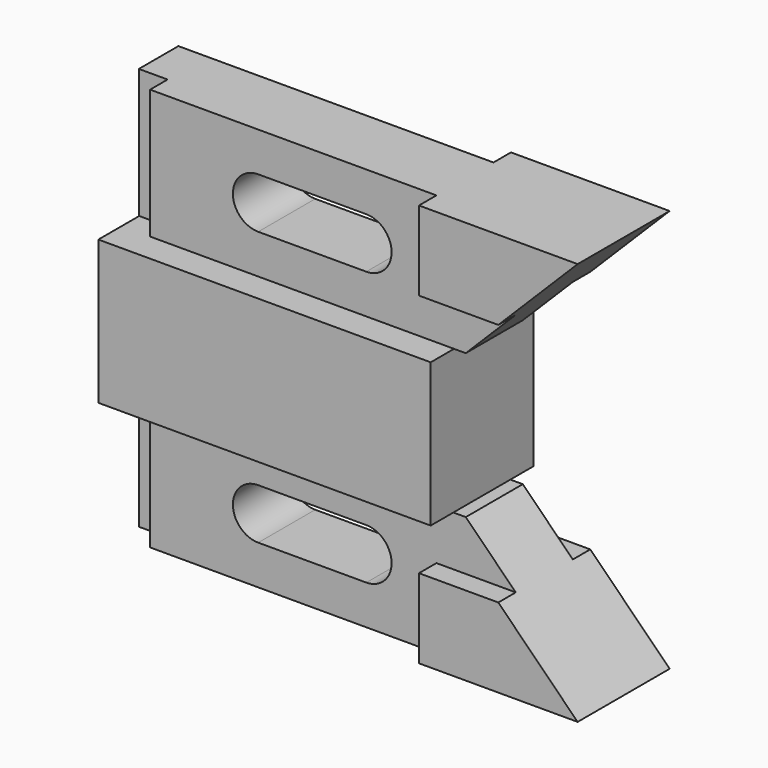
from build123d import *

# Parameters (mm, degrees)
F0_W      = 104.648
F0_H      = 28.575
F1_DEPTH  = 12.7
F2_W      = 6.35
F2_H      = 9.652
F3_DEPTH  = 28.576
F5_DEPTH  = 4.826
F7_DEPTH  = 4.826
F9_DEPTH  = 25.401
F10_W     = 73.406
F10_H     = 31.75
F11_DEPTH = 14.224


with BuildPart() as f1:
    # F0 (on Front) → F1 (new body, symmetric)
    with BuildSketch(Plane.XZ):
        with Locations((-7.366, 30.226)):
            Rectangle(F0_W, F0_H)
        with BuildLine():
            ThreePointArc((-29.464, 24.638), (-35.052, 30.226), (-29.464, 35.814))
            Line((-29.464, 35.814), (-5.588, 35.814))
            ThreePointArc((-5.588, 35.814), (0, 30.226), (-5.588, 24.638))
            Line((-5.588, 24.638), (-29.464, 24.638))
        make_face(mode=Mode.SUBTRACT)
    extrude(amount=F1_DEPTH, both=True)

    # F2 (on face) → F3 (cut, through all)
    with BuildSketch(Plane.XY.offset(44.5135)):
        with Locations((-56.515, -7.874)):
            Rectangle(F2_W, F2_H)
    extrude(amount=-F3_DEPTH, mode=Mode.SUBTRACT)

    # F4 (on face) → F5 (cut)
    with BuildSketch(Plane.XZ.offset(12.7)):
        Polygon((9.906, 44.5135), (-53.34, 44.5135), (-53.34, 15.9385), (44.958, 15.9385), (44.958, 26.9875), (9.906, 26.9875), align=None)
        with BuildLine():
            Line((-5.588, 24.638), (-29.464, 24.638))
            ThreePointArc((-29.464, 24.638), (-35.052, 30.226), (-29.464, 35.814))
            Line((-29.464, 35.814), (-5.588, 35.814))
            ThreePointArc((-5.588, 35.814), (0, 30.226), (-5.588, 24.638))
        make_face(mode=Mode.SUBTRACT)
    extrude(amount=-F5_DEPTH, mode=Mode.SUBTRACT)

    # F6 (on face) → F7 (cut)
    with BuildSketch(Plane(origin=(0, 12.7, 0), x_dir=(-1, 0, 0), z_dir=(0, 1, 0))):
        Polygon((59.69, 15.9385), (59.69, 44.5135), (-9.906, 44.5135), (-9.906, 26.9875), (-44.958, 26.9875), (-44.958, 15.9385), align=None)
        with BuildLine():
            Line((5.588, 35.814), (29.464, 35.814))
            ThreePointArc((29.464, 35.814), (35.052, 30.226), (29.464, 24.638))
            Line((29.464, 24.638), (5.588, 24.638))
            ThreePointArc((5.588, 24.638), (0, 30.226), (5.588, 35.814))
        make_face(mode=Mode.SUBTRACT)
    extrude(amount=-F7_DEPTH, mode=Mode.SUBTRACT)

    # F8 (on face) → F9 (cut, through all)
    with BuildSketch(Plane.XZ.offset(12.7)):
        Polygon((44.958, 26.9875), (44.958, 44.5135), (27.432, 26.9875), align=None)
        Polygon((44.958, 26.9875), (27.432, 26.9875), (16.383, 15.9385), (44.958, 15.9385), align=None)
    extrude(amount=-F9_DEPTH, mode=Mode.SUBTRACT)


with BuildPart() as f11:
    # F10 (on Front) → F11 (new body, symmetric)
    with BuildSketch(Plane.XZ):
        with Locations((-22.987, 0)):
            Rectangle(F10_W, F10_H)
    extrude(amount=F11_DEPTH, both=True)


with BuildPart() as f12_1:
    # F12: instance of F1
    add(f1.part.mirror(Plane.XY))


solid = Compound([f1.part, f11.part, f12_1.part])
